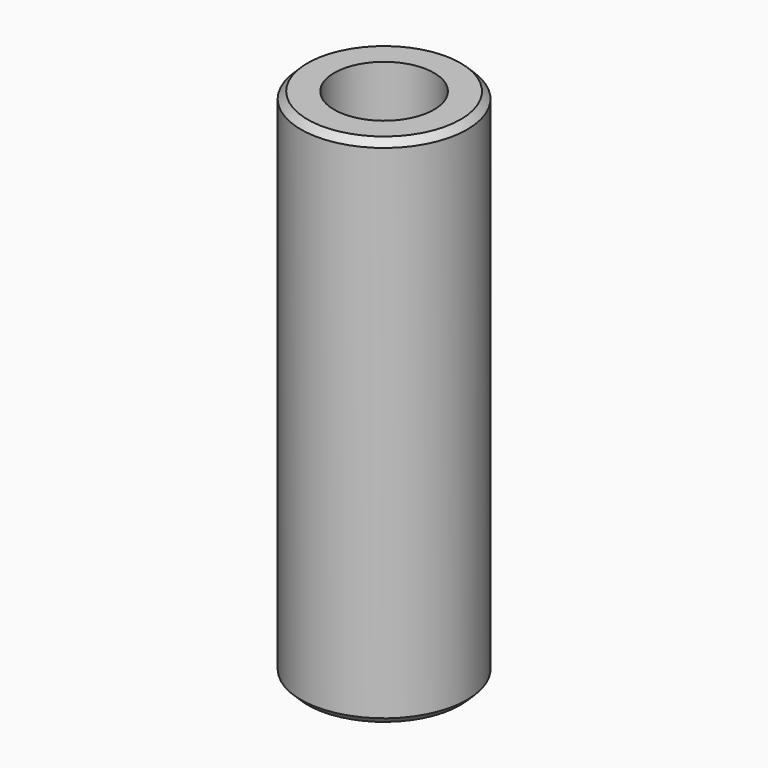
from build123d import *

# Parameters (mm, degrees)
F0_R     = 2.5
F1_DEPTH = 15.5
F2_SIZE  = 0.2
F3_D     = 3


with BuildPart() as f1:
    # F0 (on Top) → F1 (new body)
    with BuildSketch(Plane.XY):
        Circle(F0_R)
    extrude(amount=F1_DEPTH)

    # F2
    f2_edges = [f1.edges().sort_by_distance(p)[0] for p in [
        (-2.5, 0, 15.5),
        (-2.5, 0, 0),
    ]]
    chamfer(f2_edges, length=F2_SIZE)

    # F3 (through all)
    with Locations(Plane(origin=(0, 0, 0), x_dir=(1, 0, 0), z_dir=(0, 0, -1))):
        with Locations((0, 0)):
            Hole(F3_D / 2)


solid = f1.part
